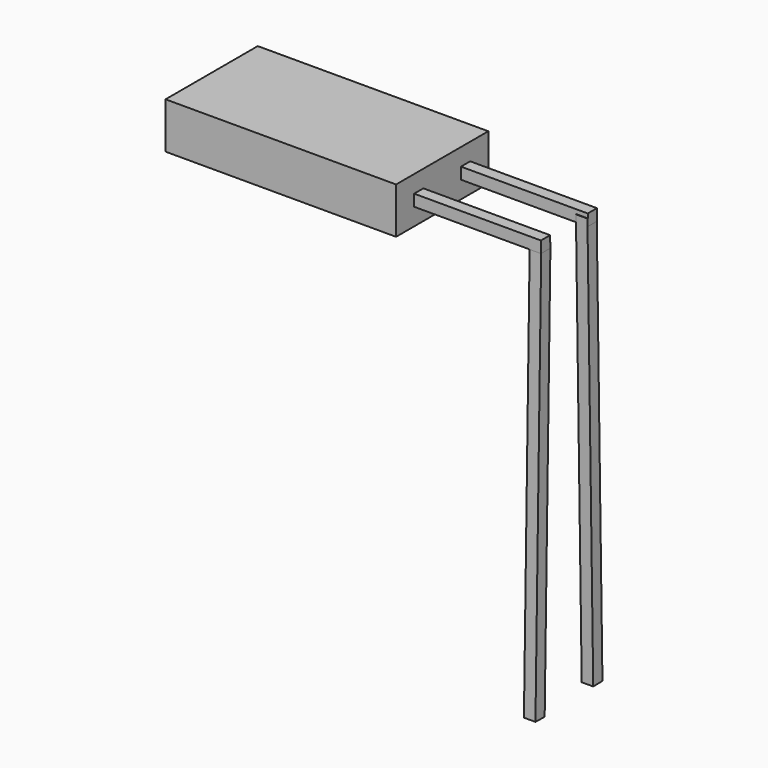
from build123d import *

# Parameters (mm, degrees)
BOX_W                  = 10
BOX_H                  = 5
BOX_DEPTH              = 2
BOX001_W               = 18
BOX001_H               = 0.5
BOX001_DEPTH           = 0.5
BOX001_ROLL_ANGLE      = -90
BOX001_PITCH_ANGLE     = 89
BOX001_PLACEMENT_ANGLE = -90
CLONE_ROLL_ANGLE       = 2
BOX002_W               = 6
BOX002_H               = 0.5
BOX002_DEPTH           = 0.5


with BuildPart() as cube:
    # Box → Box (new body)
    with BuildSketch(Plane(origin=(-17, 0, 0), x_dir=(1, 0, 0), z_dir=(0, 0, 1))):
        with Locations((5, 2.5)):
            Rectangle(BOX_W, BOX_H)
    extrude(amount=BOX_DEPTH)


with BuildPart() as cube001:
    # Box001 → Box001 (new body)
    with BuildSketch(Plane.XY):
        with Locations((9, 0.25)):
            Rectangle(BOX001_W, BOX001_H)
    extrude(amount=BOX001_DEPTH)


with BuildPart() as cube001_1:
    # Box001 roll: moved
    add(cube001.part.rotate(Axis((0, 0, 0), (1, 0, 0)), BOX001_ROLL_ANGLE))


with BuildPart() as cube001_2:
    # Box001 pitch: moved
    add(cube001_1.part.rotate(Axis((0, 0, 0), (0, 1, 0)), BOX001_PITCH_ANGLE))


with BuildPart() as cube001_3:
    # Box001 placement: moved
    add(cube001_2.part.moved(Location((-2, 0.997303, 0.982744))).rotate(Axis((-2, 0.997303, 0.982744), (0, 0, 1)), BOX001_PLACEMENT_ANGLE))


with BuildPart() as clone_of_cube001:
    # Clone base: copy of Cube001
    add(cube001_3.part)


with BuildPart() as clone_of_cube001_1:
    # Clone roll: moved
    add(clone_of_cube001.part.rotate(Axis((0, 0, 0), (1, 0, 0)), CLONE_ROLL_ANGLE))


with BuildPart() as clone_of_cube001_2:
    # Clone placement: moved
    add(clone_of_cube001_1.part.moved(Location((0, 2.539613, 0.044329))))


with BuildPart() as cube002:
    # Box002 → Box002 (new body)
    with BuildSketch(Plane(origin=(-7.5, 3.52, 0.75), x_dir=(1, 0, 0), z_dir=(0, 0, 1))):
        with Locations((3, 0.25)):
            Rectangle(BOX002_W, BOX002_H)
    extrude(amount=BOX002_DEPTH)


with BuildPart() as clone_of_cube002:
    # Clone001 base: copy of Cube002
    add(cube002.part)


with BuildPart() as clone_of_cube002_1:
    # Clone001 placement: moved
    add(clone_of_cube002.part.moved(Location((0, -2.54, 0))))


solid = Compound([cube.part, cube001_3.part, clone_of_cube001_2.part, cube002.part, clone_of_cube002_1.part])
